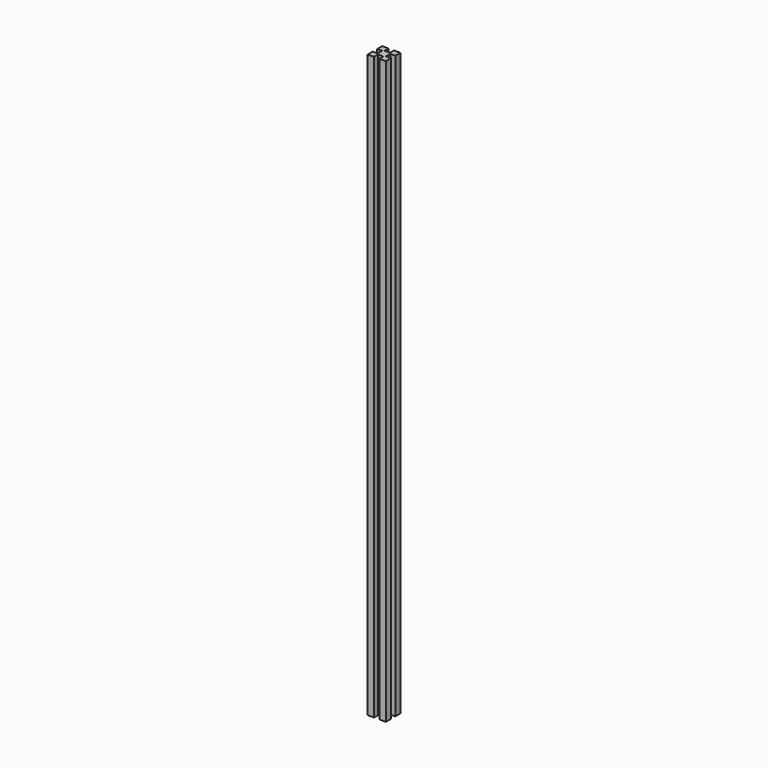
from build123d import *

# Parameters (mm, degrees)
F1_DEPTH = 640


with BuildPart() as f1:
    # F0 (on Top) → F1 (new body)
    with BuildSketch(Plane.XY):
        Polygon((0, 7), (0, 0), (7, 0), (7, 5.5), (13, 5.5), (13, 0), (20, 0), (20, 7), (14.5, 7), (14.5, 13), (20, 13), (20, 20), (13, 20), (13, 14.5), (7, 14.5), (7, 20), (0, 20), (0, 13), (5.5, 13), (5.5, 7), align=None)
    extrude(amount=F1_DEPTH)


solid = f1.part
